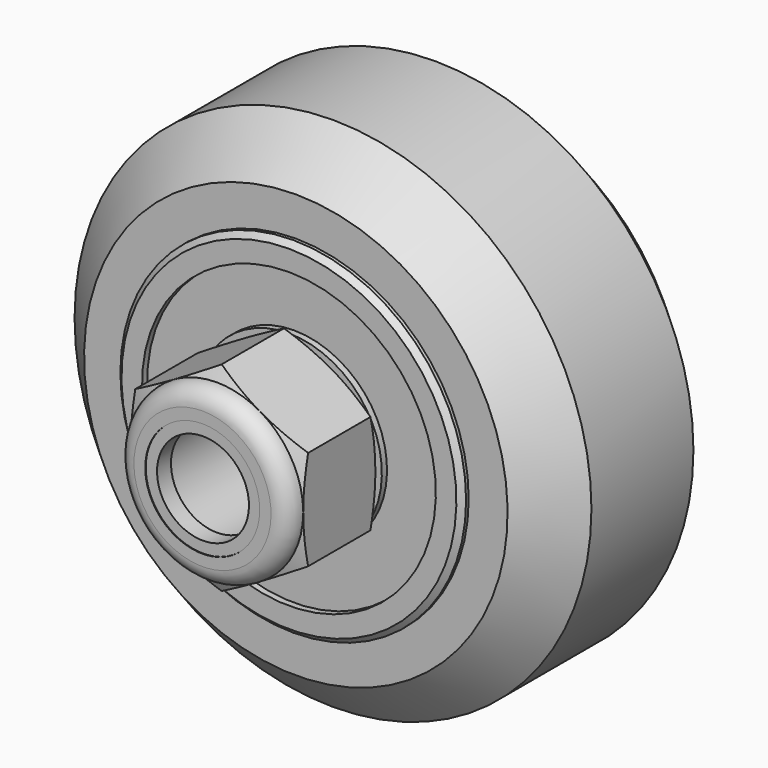
from build123d import *

# Parameters (mm, degrees)
F2_R      = 5
F2_R_2    = 2.5
F3_DEPTH  = 0.5
F6_SIZE   = 0.25
F10_DEPTH = 5.001


with BuildPart() as f1:
    # F0 (on Right) → F1 (revolve)
    with BuildSketch(Plane.YZ):
        Polygon((-0.5, 6.9475), (0, 6.9475), (0.5, 6.9475), (0.5, 7.9875), (5.1, 7.9875), (5.1, 9.8), (2.95, 11.96), (0, 11.96), (-2.95, 11.96), (-5.1, 9.8), (-5.1, 7.9875), (-0.5, 7.9875), align=None)
    revolve(axis=Axis((0, 9.5064991185, 0), (0, 1, 0)))


with BuildPart() as f3:
    # F2 (on Front) → F3 (new body, symmetric)
    with BuildSketch(Plane.XZ):
        Circle(F2_R)
        Circle(F2_R_2, mode=Mode.SUBTRACT)
    extrude(amount=F3_DEPTH, both=True)


with BuildPart() as f5:
    # F4 (on Right) → F5 (revolve)
    with BuildSketch(Plane.YZ):
        Polygon((-5.5, 2.5), (-0.5, 2.5), (-0.5, 4.3), (-0.8, 4.3), (-0.8, 6.8), (-0.5, 6.8), (-0.5, 8), (-5.5, 8), (-5.5, 6.8), (-5.2, 6.8), (-5.2, 4.3), (-5.5, 4.3), align=None)
    revolve(axis=Axis((0, -2.75, 0), (0, -1, 0)))

    # F6
    f6_edges = [f5.edges().sort_by_distance(p)[0] for p in [
        (0, -5.5, -8),
        (0, -0.5, -8),
        (0, -5.5, -2.5),
        (0, -0.5, -2.5),
    ]]
    chamfer(f6_edges, length=F6_SIZE)


with BuildPart() as f8:
    # F7 (on Right) → F8 (revolve)
    with BuildSketch(Plane.YZ):
        with BuildLine():
            Line((-5.5, 2.5), (-5.5, 4))
            Line((-5.5, 4), (-5.786, 4.625))
            Line((-5.786, 4.625), (-7.586, 4.625))
            Line((-7.586, 4.625), (-9.386, 4.625))
            Line((-9.386, 4.625), (-9.672, 4))
            ThreePointArc((-9.672, 4), (-10.2574844148, 3.7574844148), (-10.5, 3.172))
            Line((-10.5, 3.172), (-10.5, 2.65))
            Line((-10.5, 2.65), (-10.47, 2.65))
            Line((-10.47, 2.65), (-10.47, 2.1275))
            Line((-10.47, 2.1275), (-9.663, 2.1275))
            Line((-9.663, 2.1275), (-9.663, 2.5))
            Line((-9.663, 2.5), (-5.5, 2.5))
        make_face()
    revolve(axis=Axis((0, -8, 0), (0, -1, 0)))

    # F9 (on face) → F10 (intersect, through all)
    with BuildSketch(Plane(origin=(0, -5.5, 0), x_dir=(-1, 0, 0), z_dir=(0, 1, 0))):
        Polygon((4, -2.3094010768), (4, 2.3094010768), (0, 4.6188021535), (-4, 2.3094010768), (-4, -2.3094010768), (0, -4.6188021535), align=None)
    extrude(amount=-F10_DEPTH, mode=Mode.INTERSECT)


solid = Compound([f1.part, f3.part, f5.part, f8.part])
